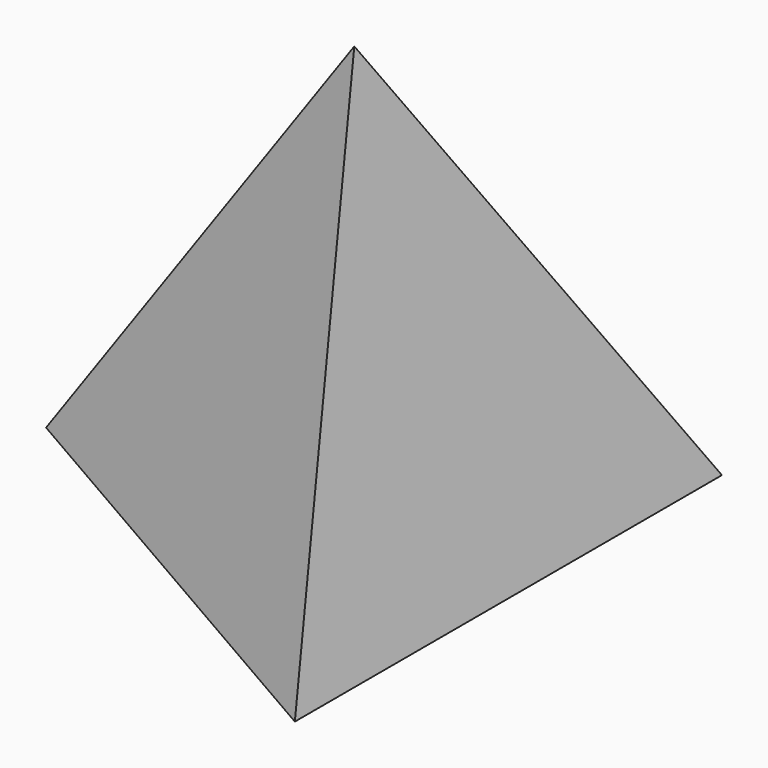
from build123d import *

# Parameters (mm, degrees)
F4_DEPTH  = 25.4
F5_W      = 46.6010663658
F5_H      = 39.7627335042
F6_DEPTH  = 25.4
F8_W      = 68.0729933083
F8_H      = 50.7683739997
F9_DEPTH  = 25.4
F11_W     = 45.6217722967
F11_H     = 58.1790879369
F12_DEPTH = 25.4


with BuildPart() as f4:
    # F0 (on Top) → F4 (new body)
    with BuildSketch(Plane.XY):
        Polygon((0, -12.7), (0, 0), (-7.3323484187, 0), align=None)
        Polygon((-7.3323484187, 0), (0, 0), (0, 12.7), (-10.9985226281, 6.35), align=None)
        Polygon((-21.9970452561, 0), (0, -12.7), (-7.3323484187, 0), align=None)
        Polygon((-21.9970452561, 0), (-7.3323484187, 0), (-10.9985226281, 6.35), align=None)
    extrude(amount=F4_DEPTH)

    # F5 (on 3pt) → F6 (cut)
    with BuildSketch(Plane(origin=(0, 0, 0), x_dir=(0, -1, 0), z_dir=(-0.9428090416, 0, -0.3333333333))):
        with Locations((-4.0135839954, 15.0211239234)):
            Rectangle(F5_W, F5_H)
    extrude(amount=-F6_DEPTH, mode=Mode.SUBTRACT)

    # F8 (on 3pt) → F9 (cut)
    with BuildSketch(Plane(origin=(-4.8882322791, -8.4666666667, 3.4565021926), x_dir=(0.8819171037, -0.4364357805, 0.1781741613), z_dir=(-0.4714045208, -0.8164965809, 0.3333333333))):
        with Locations((0.508910045, 15.6671002042)):
            Rectangle(F8_W, F8_H)
    extrude(amount=F9_DEPTH, mode=Mode.SUBTRACT)

    # F11 (on 3pt) → F12 (cut)
    with BuildSketch(Plane(origin=(-4.8882322791, 8.4666666667, 3.4565021926), x_dir=(-0.8819171037, -0.4364357805, -0.1781741613), z_dir=(-0.4714045208, 0.8164965809, 0.3333333333))):
        with Locations((11.0377906822, 16.6354514658)):
            Rectangle(F11_W, F11_H)
    extrude(amount=F12_DEPTH, mode=Mode.SUBTRACT)


solid = f4.part
